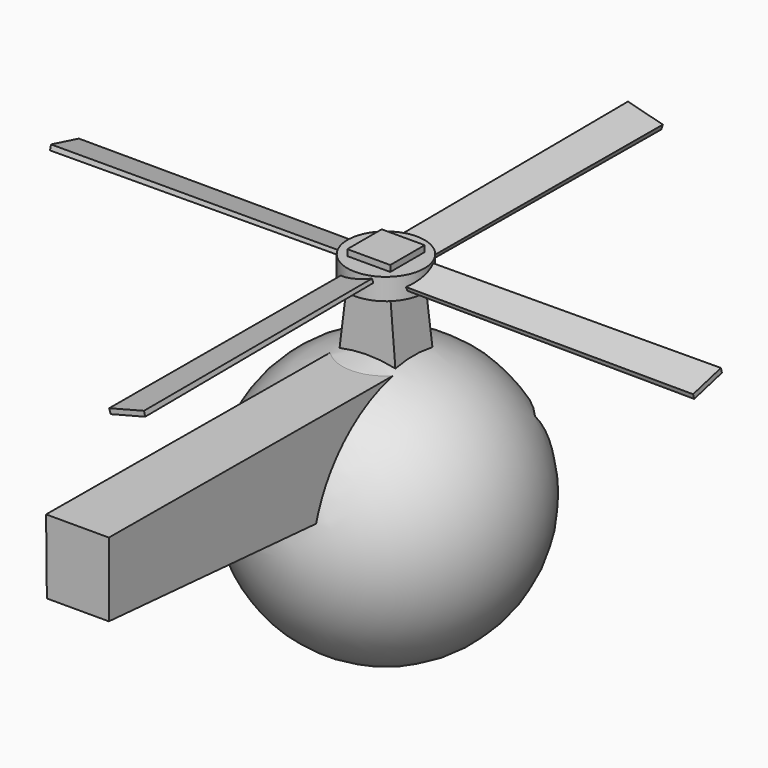
from build123d import *

# Parameters (mm, degrees)
F2_W      = 27.1022729576
F2_H      = 17.3863638192
F4_W      = 14
F4_H      = 14
F6_R      = 12.5388407088
F6_W      = 14
F6_H      = 14
F7_DEPTH  = 7
F8_W      = 14
F8_H      = 14
F9_DEPTH  = 9
F14_COUNT = 4
F15_W     = 20.454544574
F15_H     = 32.7272750437
F21_W     = 57.7840954065
F21_H     = 23.0113659054
F22_DEPTH = 35
F24_R     = 7.8056257994
F25_DEPTH = 29
F26_R     = 4.8847962488
F27_DEPTH = 20


with BuildPart() as f1:
    # F0 (on Top) → F1 (revolve)
    with BuildSketch(Plane.XY):
        with BuildLine():
            Line((0, -43.825387799), (0, 43.825387799))
            ThreePointArc((0, 43.825387799), (-43.825387799, 0), (0, -43.825387799))
        make_face()
    revolve(axis=Axis((0, 0, 0), (0, 1, 0)))

    # F2 (on Top) → F5 section 0
    with BuildSketch(Plane.XY):
        Rectangle(F2_W, F2_H)
    # F4 (on offset) → F5 section 1
    with BuildSketch(Plane.XY.offset(62)):
        Rectangle(F4_W, F4_H)
    loft()

    # F17 (on offset) → F18 section 0
    with BuildSketch(Plane.XZ.offset(125)):
        Polygon((9.7159091383, 41.6761375964), (-10.738636367, 41.6761375964), (-10.4829547927, 17.6420472562), (9.7159091383, 17.6420472562), align=None)
    # F15 (on Front) → F18 section 1
    with BuildSketch(Plane.XZ):
        with Locations((0, 25.0568185002)):
            Rectangle(F15_W, F15_H)
    loft()

    # F21 (on offset) → F22 (cut)
    with BuildSketch(Plane.XZ.offset(-55)):
        with Locations((0, 10.4829547927)):
            Rectangle(F21_W, F21_H)
    extrude(amount=F22_DEPTH, mode=Mode.SUBTRACT)

    # F24 (on offset) → F25 (join)
    with BuildSketch(Plane.XZ.offset(-10)):
        with Locations((0, -29.1477292776)):
            Circle(F24_R)
    extrude(amount=-F25_DEPTH)


with BuildPart() as f7:
    # F6 (on face) → F7 (new body)
    with BuildSketch(Plane.XY.offset(62)):
        Circle(F6_R)
        Rectangle(F6_W, F6_H, mode=Mode.SUBTRACT)
    extrude(amount=F7_DEPTH)


with BuildPart() as f9:
    # F8 (on face) → F9 (new body)
    with BuildSketch(Plane.XY.offset(62)):
        Rectangle(F8_W, F8_H)
    extrude(amount=F9_DEPTH)


with BuildPart() as f13:
    # F11 (on Right) → F13 section 0
    with BuildSketch(Plane.YZ):
        Polygon((4.6546873637, 68.2160183787), (-5.7233697735, 65.5362382531), (-5.3488112725, 64.3771313739), (4.9586915201, 67.0386932408), align=None)
    # F12 (on offset) → F13 section 1
    with BuildSketch(Plane.YZ.offset(105)):
        Polygon((5.1511004567, 68.4154927731), (-6.1879102141, 65.4802173376), (-5.7188672426, 63.9293874224), (5.5568010265, 66.8482657134), align=None)
    loft()


with BuildPart() as f14_1:
    # F14: instance of F13
    add(f13.part.rotate(Axis((0, 0, 62), (0, 0, -1)), 1 * 360 / F14_COUNT))


with BuildPart() as f14_2:
    # F14: instance of F13
    add(f13.part.rotate(Axis((0, 0, 62), (0, 0, -1)), 2 * 360 / F14_COUNT))


with BuildPart() as f14_3:
    # F14: instance of F13
    add(f13.part.rotate(Axis((0, 0, 62), (0, 0, -1)), 3 * 360 / F14_COUNT))


with BuildPart() as f27:
    # F26 (on face) → F27 (new body)
    with BuildSketch(Plane(origin=(0, 39, 0), x_dir=(-1, 0, 0), z_dir=(0, 1, 0))):
        with Locations((0, -29.1477292776)):
            Circle(F26_R)
    extrude(amount=F27_DEPTH)


solid = Compound([f1.part, f7.part, f9.part, f13.part, f14_1.part, f14_2.part, f14_3.part, f27.part])
